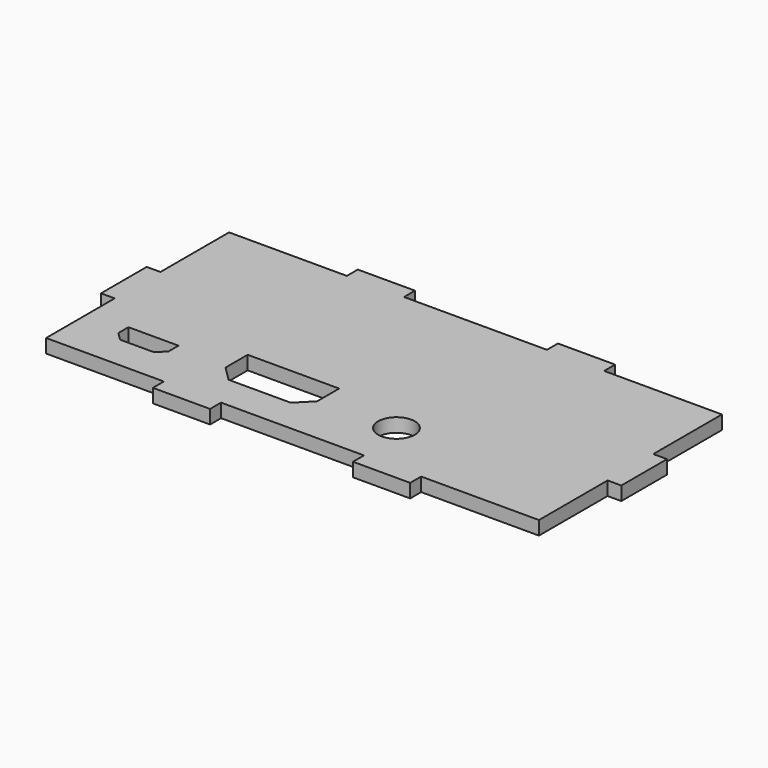
from build123d import *

# Parameters (mm, degrees)
F0_R     = 3.2
F1_DEPTH = 2.4


with BuildPart() as f1:
    # F0 (on Top) → F1 (new body)
    with BuildSketch(Plane.XY):
        Polygon((43.1, 5), (43.1, 20), (22.5, 20), (22.5, 22.4), (12.5, 22.4), (12.5, 20), (-12.5, 20), (-12.5, 22.4), (-22.5, 22.4), (-22.5, 20), (-43.1, 20), (-43.1, 5), (-45.5, 5), (-45.5, -5), (-43.1, -5), (-43.1, -20), (-22.5, -20), (-22.5, -22.4), (-12.5, -22.4), (-12.5, -20), (12.5, -20), (12.5, -22.4), (22.5, -22.4), (22.5, -20), (43.1, -20), (43.1, -5), (45.5, -5), (45.5, 5), align=None)
        Polygon((-36.31, -12.67), (-36.31, -10.48), (-27.56, -10.48), (-27.56, -12.67), (-28.97, -14.08), (-34.9, -14.08), align=None, mode=Mode.SUBTRACT)
        Polygon((-18.5, -11.51), (-18.5, -6.68), (-2.5, -6.68), (-2.5, -11.51), (-5.07, -14.08), (-15.93, -14.08), align=None, mode=Mode.SUBTRACT)
        with Locations((10.9, -10.9)):
            Circle(F0_R, mode=Mode.SUBTRACT)
    extrude(amount=F1_DEPTH)


solid = f1.part
